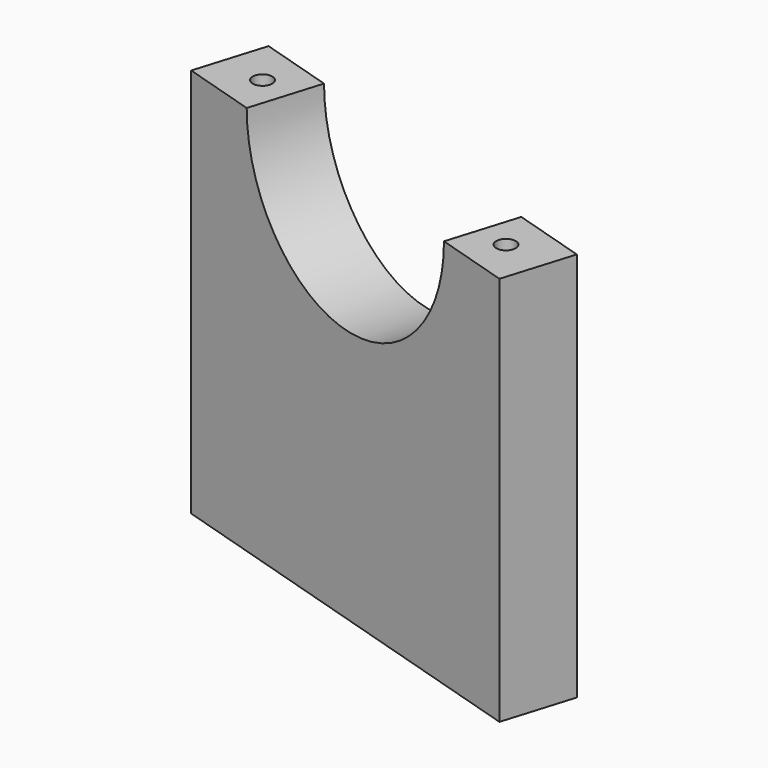
from build123d import *

# Parameters (mm, degrees)
PAD005_DEPTH      = 31
PAD005_DEPTH_BACK = 1
SKETCH022_R       = 11.2
POCKET006_DEPTH   = 15.7868758107
SKETCH030_R       = 0.8
POCKET012_DEPTH   = 12


with BuildPart() as part:
    # Sketch017 → Pad005 (new body, two sides)
    with BuildSketch(Plane.XY) as pad005_sk:
        Polygon((-43.4480411338, -67.1734152894), (-9.9773746751, -77.4064249547), (-8.2231444467, -71.6685964189), (-41.6938109054, -61.4355867536), align=None)
    extrude(amount=PAD005_DEPTH)
    extrude(pad005_sk.sketch, amount=-PAD005_DEPTH_BACK)

    # Sketch022 → Pocket006 (cut, through all)
    with BuildSketch(Plane(origin=(-22.4954398558, -73.5792683564, 0), x_dir=(0.956304756, -0.2923717047, 0), z_dir=(-0.2923717047, -0.956304756, 0))):
        with Locations((-4.4099624333, 31)):
            Circle(SKETCH022_R)
    extrude(amount=-POCKET006_DEPTH, mode=Mode.SUBTRACT)

    # Sketch030 → Pocket012 (cut)
    with BuildSketch(Plane.XY.offset(31)):
        with Locations((-12.610661593, -73.443591444)):
            Circle(SKETCH030_R)
        with Locations((-39.0489589627, -65.3605927726)):
            Circle(SKETCH030_R)
    extrude(amount=-POCKET012_DEPTH, mode=Mode.SUBTRACT)


solid = part.part
